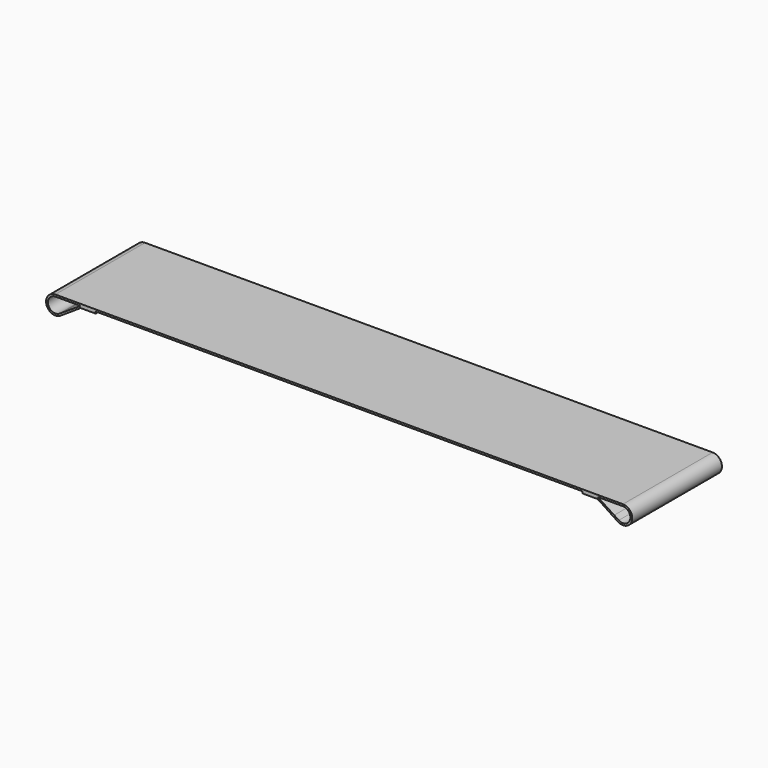
from build123d import *

# Parameters (mm, degrees)
F2_DEPTH      = 48
F2_DEPTH_BACK = 48


with BuildPart() as f2:
    # F1 (on Front) → F2 (new body, two sides)
    with BuildSketch(Plane.XZ) as f2_sk:
        with BuildLine():
            ThreePointArc((-239.502379, -5.29992), (-249.081817, -1.825926), (-243, 6.35))
            Line((-243, 6.35), (-238.216696, 6.35))
            ThreePointArc((-238.216696, 6.35), (-240.478096, 7.539397), (-243, 7.95))
            ThreePointArc((-243, 7.95), (-250.614243, -2.286002), (-238.621089, -6.635332))
            ThreePointArc((-238.621089, -6.635332), (-236.772357, -4.941554), (-235.543083, -2.756244))
            Line((-235.543083, -2.756244), (-239.502379, -5.29992))
        make_face()
        with BuildLine():
            ThreePointArc((-243, 7.95), (-240.478096, 7.539397), (-238.216696, 6.35))
            Line((-238.216696, 6.35), (-221.368978, 6.35))
            Line((-221.368978, 6.35), (-208.507488, 6.35))
            Line((-208.507488, 6.35), (0, 6.35))
            Line((0, 6.35), (0, 7.95))
            Line((0, 7.95), (-243, 7.95))
        make_face()
        with BuildLine():
            Line((-221.368978, 6.35), (-235.543083, -2.756244))
            ThreePointArc((-235.543083, -2.756244), (-236.772357, -4.941554), (-238.621089, -6.635332))
            Line((-238.621089, -6.635332), (-221.368978, 4.75))
            Line((-221.368978, 4.75), (-208.507488, 4.75))
            Line((-208.507488, 4.75), (-208.507488, 6.35))
            Line((-208.507488, 6.35), (-221.368978, 6.35))
        make_face()
    extrude(amount=F2_DEPTH)
    extrude(f2_sk.sketch, amount=-F2_DEPTH_BACK)

    # F3: F2 across plane


with BuildPart() as f2_1:
    add(f2.part)
    add(f2.part.mirror(Plane.YZ))


solid = f2_1.part
